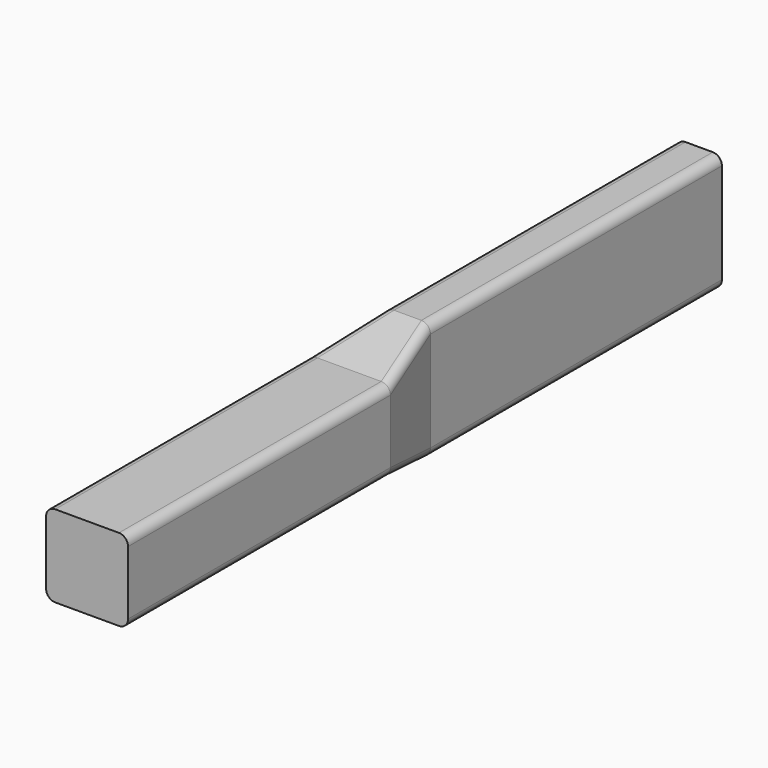
from build123d import *

# Parameters (mm, degrees)
F0_W     = 2.5
F0_H     = 4.5
F0_W_2   = 1
F1_DEPTH = 20
F0_H_2   = 1
F2_DEPTH = 22
F3_R     = 0.5
F4_W     = 4
F4_H     = 10
F5_DEPTH = 12.5


with BuildPart() as f1:
    # F0 (on Front) → F1 (new body)
    with BuildSketch(Plane.XZ):
        Rectangle(F0_W, F0_H)
        with Locations((1.75, 0)):
            Rectangle(F0_W_2, F0_H)
        with Locations((-1.75, 0)):
            Rectangle(F0_W_2, F0_H)
    extrude(amount=F1_DEPTH)

    # F0 (on Front) → F2 (join)
    with BuildSketch(Plane.XZ):
        with Locations((0, 2.75)):
            Rectangle(F0_W, F0_H_2)
        Rectangle(F0_W, F0_H)
        with Locations((0, -2.75)):
            Rectangle(F0_W, F0_H_2)
    extrude(amount=-F2_DEPTH)

    # F3
    f3_edges = [f1.edges().sort_by_distance(p)[0] for p in [
        (-2.25, -10, 2.25),
        (-1.25, 11, 3.25),
        (1.25, 11, 3.25),
        (-1.25, 11, -3.25),
        (-2.25, -10, -2.25),
        (1.25, 11, -3.25),
        (2.25, -10, -2.25),
        (2.25, -10, 2.25),
    ]]
    fillet(f3_edges, radius=F3_R)

    # F4 (on Right) → F5 (cut, symmetric)
    with BuildSketch(Plane.YZ):
        Rectangle(F4_W, F4_H)
    extrude(amount=F5_DEPTH, both=True, mode=Mode.SUBTRACT)

    # F5_face (on face) → F6 section 0
    with BuildSketch(Plane.XZ.offset(-2)):
        with BuildLine():
            Line((1.25, -2.75), (1.25, 2.75))
            ThreePointArc((1.25, 2.75), (1.1035533906, 3.1035533906), (0.75, 3.25))
            Line((0.75, 3.25), (-0.75, 3.25))
            ThreePointArc((-0.75, 3.25), (-1.1035533906, 3.1035533906), (-1.25, 2.75))
            Line((-1.25, 2.75), (-1.25, -2.75))
            ThreePointArc((-1.25, -2.75), (-1.1035533906, -3.1035533906), (-0.75, -3.25))
            Line((-0.75, -3.25), (0.75, -3.25))
            ThreePointArc((0.75, -3.25), (1.1035533906, -3.1035533906), (1.25, -2.75))
        make_face()
    # F5_face1 (on face) → F6 section 1
    with BuildSketch(Plane(origin=(0, -2, 0), x_dir=(-1, 0, 0), z_dir=(0, 1, 0))):
        with BuildLine():
            ThreePointArc((-2.25, -1.75), (-2.1035533906, -2.1035533906), (-1.75, -2.25))
            Line((-1.75, -2.25), (1.75, -2.25))
            ThreePointArc((1.75, -2.25), (2.1035533906, -2.1035533906), (2.25, -1.75))
            Line((2.25, -1.75), (2.25, 1.75))
            ThreePointArc((2.25, 1.75), (2.1035533906, 2.1035533906), (1.75, 2.25))
            Line((1.75, 2.25), (-1.75, 2.25))
            ThreePointArc((-1.75, 2.25), (-2.1035533906, 2.1035533906), (-2.25, 1.75))
            Line((-2.25, 1.75), (-2.25, -1.75))
        make_face()
    loft()


solid = f1.part
